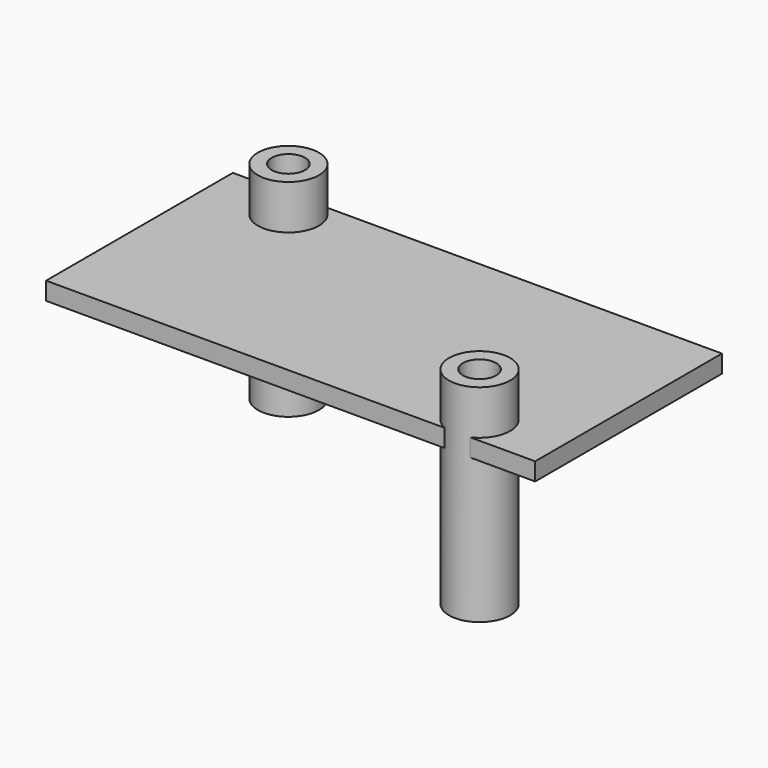
from build123d import *

# Parameters (mm, degrees)
F0_W          = 44
F0_H          = 21
F0_R          = 1.5
F1_DEPTH      = 1.6
F2_R          = 2.75
F2_R_2        = 1.5
F3_DEPTH      = 13
F3_DEPTH_BACK = 5.6


with BuildPart() as f1:
    # F0 (on Top) → F1 (new body)
    with BuildSketch(Plane.XY):
        Rectangle(F0_W, F0_H)
        with Locations((15, -8)):
            Circle(F0_R, mode=Mode.SUBTRACT)
        with Locations((-15, 8)):
            Circle(F0_R, mode=Mode.SUBTRACT)
    extrude(amount=-F1_DEPTH)


with BuildPart() as f3:
    # F2 (on face) → F3 (new body, two sides)
    with BuildSketch(Plane(origin=(0, 0, -1.6), x_dir=(1, 0, 0), z_dir=(0, 0, -1))) as f3_sk:
        with Locations((-15, -8)):
            Circle(F2_R)
        with Locations((-15, -8)):
            Circle(F2_R_2, mode=Mode.SUBTRACT)
        with Locations((15, 8)):
            Circle(F2_R)
        with Locations((15, 8)):
            Circle(F2_R_2, mode=Mode.SUBTRACT)
    extrude(amount=F3_DEPTH)
    extrude(f3_sk.sketch, amount=-F3_DEPTH_BACK)


solid = Compound([f1.part, f3.part])
